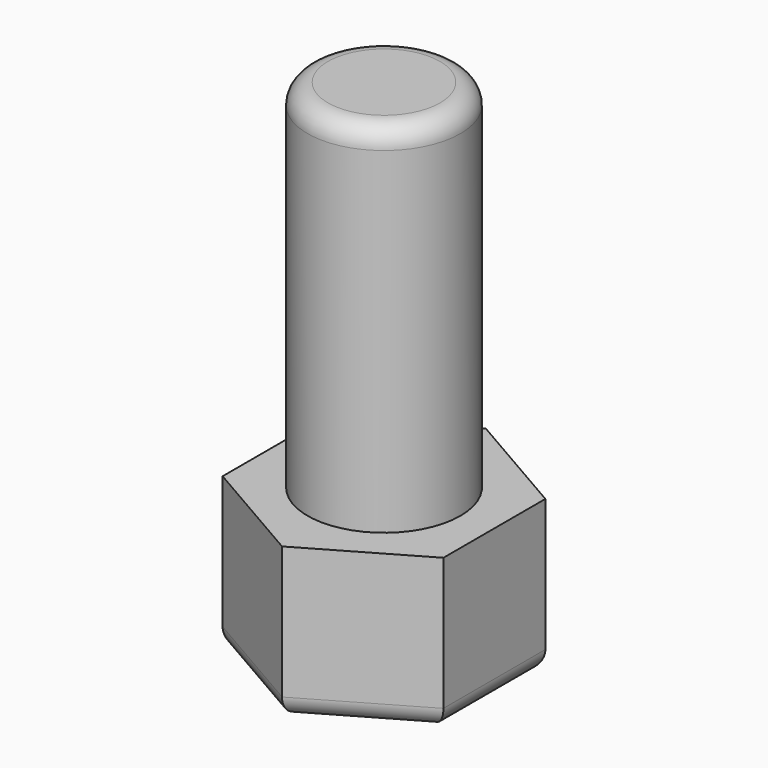
from build123d import *

# Parameters (mm, degrees)
F1_DEPTH = 3
F2_R     = 1.5
F3_DEPTH = 7
F4_R     = 0.4


with BuildPart() as f1:
    # F0 (on Top) → F1 (new body)
    with BuildSketch(Plane.XY):
        Polygon((2.165064, 1.25), (0, 2.5), (-2.165064, 1.25), (-2.165064, -1.25), (0, -2.5), (2.165064, -1.25), align=None)
    extrude(amount=F1_DEPTH)

    # F2 (on face) → F3 (join)
    with BuildSketch(Plane.XY.offset(3)):
        Circle(F2_R)
    extrude(amount=F3_DEPTH)

    # F4
    f4_edges = [f1.edges().sort_by_distance(p)[0] for p in [
        (-1.082532, 1.875, 0),
        (-2.165064, 0, 0),
        (-1.082532, -1.875, 0),
        (1.082532, -1.875, 0),
        (2.165064, 0, 0),
        (1.082532, 1.875, 0),
        (-1.5, 0, 10),
    ]]
    fillet(f4_edges, radius=F4_R)


solid = f1.part
